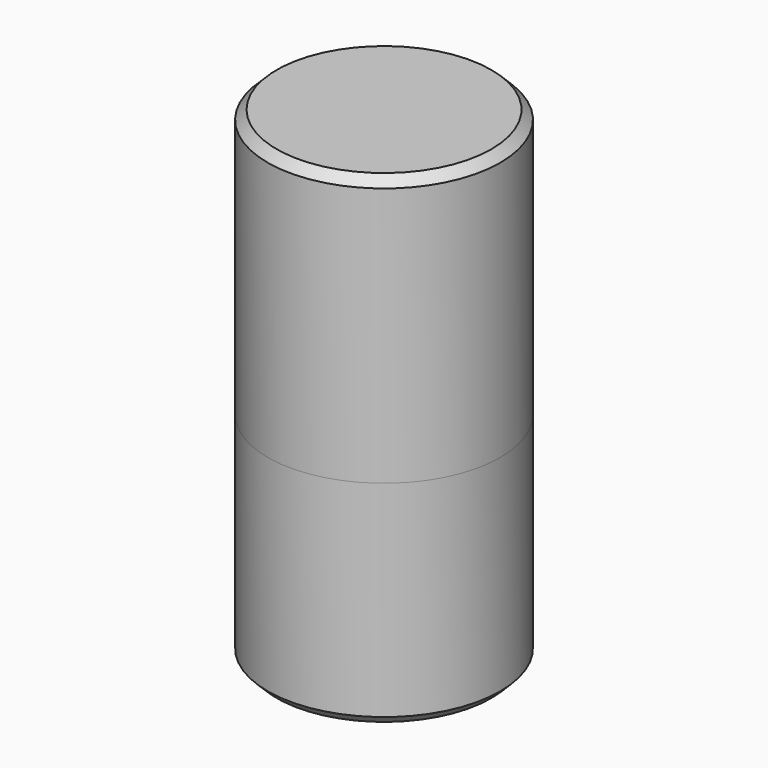
from build123d import *

# Parameters (mm, degrees)
F0_R      = 3.6
F1_DEPTH  = 3
F0_R_2    = 13
F2_DEPTH  = 9
F3_R      = 13
F3_R_2    = 11.6
F4_DEPTH  = 15
F5_R      = 13
F5_R_2    = 11.6
F6_DEPTH  = 15
F7_R      = 13
F7_R_2    = 11.6
F7_R_3    = 6.6
F8_DEPTH  = 13
F9_R      = 13
F9_R_2    = 6.6
F10_DEPTH = 2
F11_SIZE  = 1
F12_SIZE  = 1


with BuildPart() as f1:
    # F0 (on Top) → F1 (new body)
    with BuildSketch(Plane.XY):
        Circle(F0_R)
    extrude(amount=F1_DEPTH)

    # F0 (on Top) → F2 (join)
    with BuildSketch(Plane.XY):
        Circle(F0_R_2)
        Circle(F0_R, mode=Mode.SUBTRACT)
    extrude(amount=F2_DEPTH)

    # F3 (on face) → F4 (join)
    with BuildSketch(Plane.XY.offset(9)):
        Circle(F3_R)
        Circle(F3_R_2, mode=Mode.SUBTRACT)
    extrude(amount=F4_DEPTH)

    # F11
    f11_edges = [f1.edges().sort_by_distance(p)[0] for p in [
        (-11.6, 0, 24),
        (-3.6, 0, 9),
        (-13, 0, 0),
    ]]
    chamfer(f11_edges, length=F11_SIZE)


with BuildPart() as f6:
    # F5 (on face) → F6 (new body)
    with BuildSketch(Plane.XY.offset(24)):
        Circle(F5_R)
        Circle(F5_R_2, mode=Mode.SUBTRACT)
    extrude(amount=F6_DEPTH)

    # F7 (on face) → F8 (join)
    with BuildSketch(Plane.XY.offset(39)):
        Circle(F7_R)
        Circle(F7_R_2, mode=Mode.SUBTRACT)
        Circle(F7_R_2)
        Circle(F7_R_3, mode=Mode.SUBTRACT)
    extrude(amount=F8_DEPTH)

    # F9 (on face) → F10 (join)
    with BuildSketch(Plane.XY.offset(52)):
        Circle(F9_R)
        Circle(F9_R_2, mode=Mode.SUBTRACT)
        Circle(F9_R_2)
    extrude(amount=F10_DEPTH)

    # F12
    f12_edges = [f6.edges().sort_by_distance(p)[0] for p in [
        (-6.6, 0, 39),
        (-11.6, 0, 24),
        (-13, 0, 54),
    ]]
    chamfer(f12_edges, length=F12_SIZE)


solid = Compound([f1.part, f6.part])
